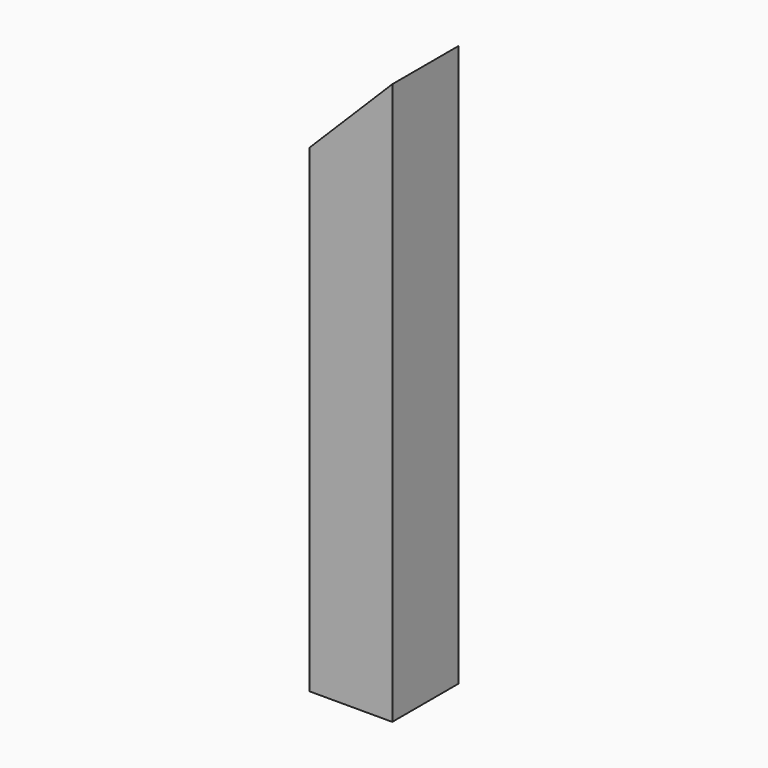
from build123d import *

# Parameters (mm, degrees)
F0_W     = 100
F0_H     = 100
F0_W_2   = 94
F0_H_2   = 94
F1_DEPTH = 680
F3_DEPTH = 110


with BuildPart() as f1:
    # F0 (on Top) → F1 (new body)
    with BuildSketch(Plane.XY):
        with Locations((5.156249, 4.435928)):
            Rectangle(F0_W, F0_H)
        with Locations((5.156249, 4.435928)):
            Rectangle(F0_W_2, F0_H_2, mode=Mode.SUBTRACT)
    extrude(amount=F1_DEPTH)

    # F2 (on face) → F3 (cut)
    with BuildSketch(Plane.XZ.offset(45.564072)):
        Polygon((-44.843751, 580), (55.156249, 680), (-44.843751, 680), align=None)
    extrude(amount=-F3_DEPTH, mode=Mode.SUBTRACT)


solid = f1.part
